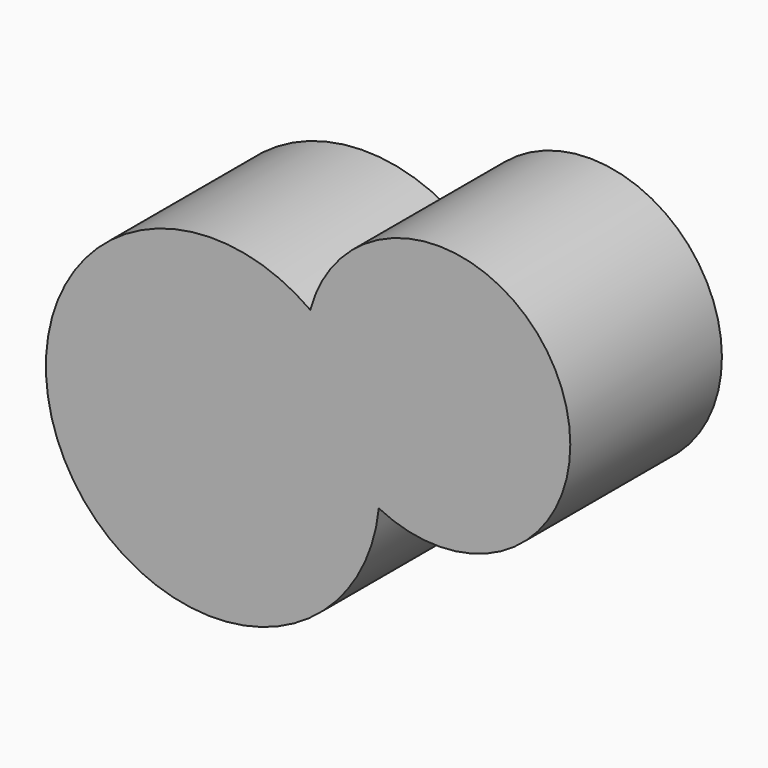
from build123d import *

# Parameters (mm, degrees)
F1_DEPTH = 45.2


with BuildPart() as f1:
    # F0 (on Front) → F1 (new body)
    with BuildSketch(Plane.XZ):
        with BuildLine():
            ThreePointArc((16.7129768698, 12.6000467224), (16.8664453502, 14.6130863944), (16.9176454168, 16.6313182563))
            ThreePointArc((16.9176454168, 16.6313182563), (12.5409066314, 34.7769236828), (0.3732113454, 48.93199451))
            ThreePointArc((0.3732113454, 48.93199451), (2.0810785537, 27.8598230299), (16.7129768698, 12.6000467224))
        make_face()
        with BuildLine():
            ThreePointArc((0.3732113454, 48.93199451), (12.5409066314, 34.7769236828), (16.9176454168, 16.6313182563))
            ThreePointArc((16.9176454168, 16.6313182563), (16.8664453502, 14.6130863944), (16.7129768698, 12.6000467224))
            ThreePointArc((16.7129768698, 12.6000467224), (47.4144968282, 13.9585721782), (62.3863225462, 40.7964810729))
            ThreePointArc((62.3863225462, 40.7964810729), (34.9487292709, 72.0687233162), (0.3732113454, 48.93199451))
        make_face()
        with BuildLine():
            ThreePointArc((16.7129768698, 12.6000467224), (2.0810785537, 27.8598230299), (0.3732113454, 48.93199451))
            ThreePointArc((0.3732113454, 48.93199451), (-59.1870699707, 0.3053636088), (16.7129768698, 12.6000467224))
        make_face()
    extrude(amount=F1_DEPTH)


solid = f1.part
